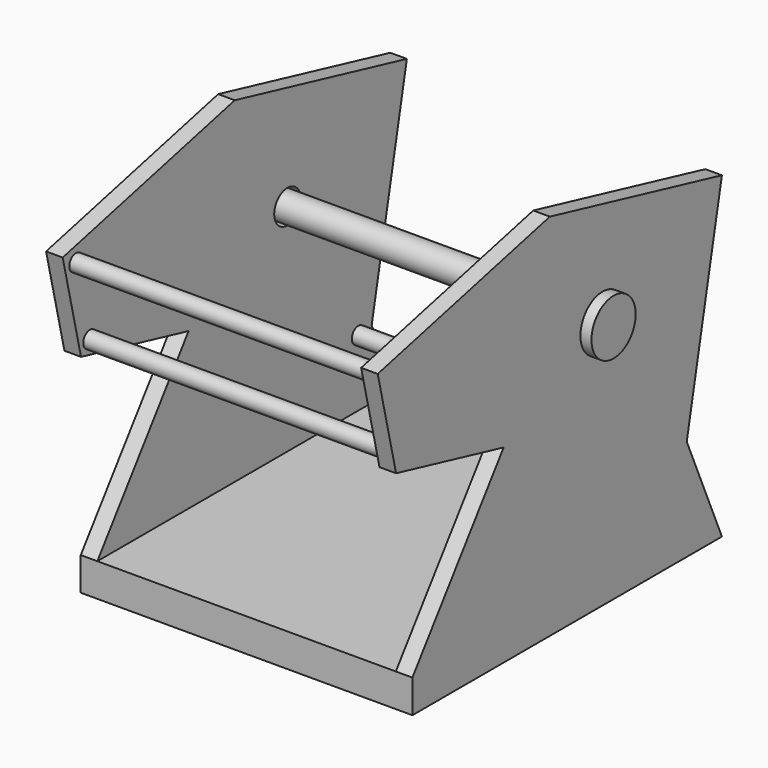
from build123d import *

# Parameters (mm, degrees)
F1_DEPTH  = 60
F2_DEPTH  = 3
F4_R      = 3
F5_DEPTH  = 3
F6_DEPTH  = 60
F7_R      = 1.5
F8_DEPTH  = 60
F9_R      = 1.5
F10_DEPTH = 60
F11_R     = 2.5
F12_DEPTH = 65
F11_R_2   = 5
F13_DEPTH = 2


with BuildPart() as f1:
    # F0 (on Right) → F1 (new body)
    with BuildSketch(Plane.YZ):
        Polygon((-35, 6), (-35, 0), (35, 0), (32.3989484852, 6), align=None)
    extrude(amount=-F1_DEPTH)

    # F0 (on Right) → F2 (join)
    with BuildSketch(Plane.YZ):
        Polygon((-14.361242862, 34.2673257278), (-35, 6), (32.3989484852, 6), (27.0451438645, 18.3499390697), (35, 57.5509628301), (-3.9202245884, 66.7822204902), (-42.8404491768, 57.5509628301), (-38.6863832298, 40.0368617653), align=None)
    extrude(amount=-F2_DEPTH)

    # F4 (on offset) → F5 (join)
    with BuildSketch(Plane.YZ.offset(-60)):
        Polygon((-38.6863832298, 40.0368617653), (-14.361242862, 34.2673257278), (-35, 6), (32.3989484852, 6), (27.0451438645, 18.3499390697), (35, 57.5509628301), (-3.9202245884, 66.7822204902), (-42.8404491768, 57.5509628301), align=None)
        with Locations((8, 45)):
            Circle(F4_R, mode=Mode.SUBTRACT)
    extrude(amount=F5_DEPTH)

    # F4 (on offset) → F6 (cut)
    with BuildSketch(Plane.YZ.offset(-60)):
        with Locations((8, 45)):
            Circle(F4_R)
    extrude(amount=F6_DEPTH, mode=Mode.SUBTRACT)

    # F7 (on Right) → F8 (join)
    with BuildSketch(Plane.YZ):
        with Locations((-39.8404491768, 55.5509628301)):
            Circle(F7_R)
        with Locations((-36.6863832298, 42.0368617653)):
            Circle(F7_R)
    extrude(amount=-F8_DEPTH)

    # F9 (on Right) → F10 (join)
    with BuildSketch(Plane.YZ):
        with Locations((24.0451438645, 18)):
            Circle(F9_R)
    extrude(amount=-F10_DEPTH)


with BuildPart() as f12:
    # F11 (on Right) → F12 (new body)
    with BuildSketch(Plane.YZ):
        with Locations((8, 45)):
            Circle(F11_R)
    extrude(amount=-F12_DEPTH)

    # F11 (on Right) → F13 (join)
    with BuildSketch(Plane.YZ):
        with Locations((8, 45)):
            Circle(F11_R_2)
        with Locations((8, 45)):
            Circle(F11_R, mode=Mode.SUBTRACT)
        with Locations((8, 45)):
            Circle(F11_R)
    extrude(amount=F13_DEPTH)


solid = Compound([f1.part, f12.part])
